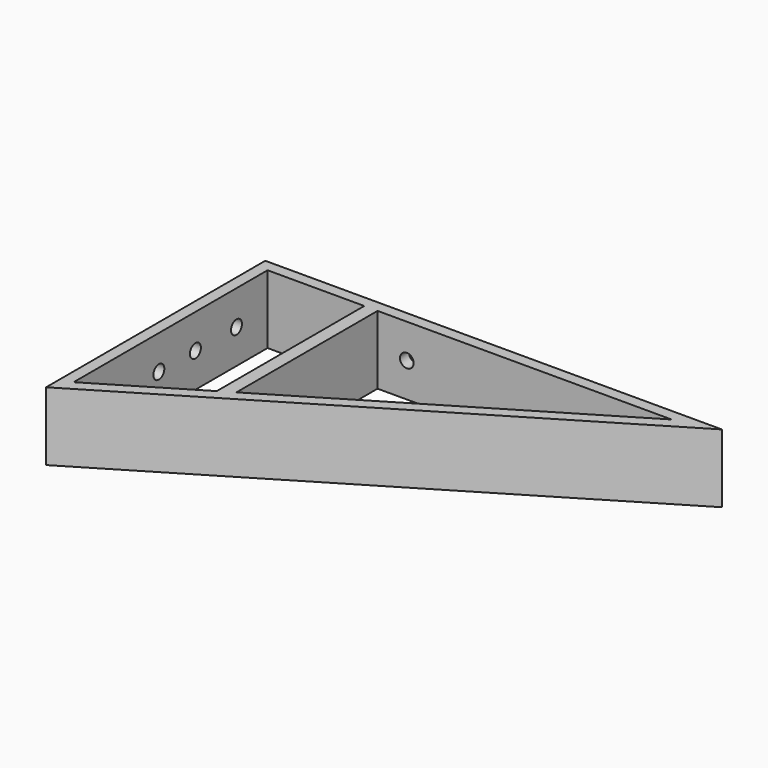
from build123d import *

# Parameters (mm, degrees)
F0_W     = 200
F0_H     = 120
F1_DEPTH = 30
F3_DEPTH = 30
F5_DEPTH = 30
F7_DEPTH = 6
F9_DEPTH = 6


with BuildPart() as f1:
    # F0 (on Top) → F1 (new body)
    with BuildSketch(Plane.XY):
        with Locations((-100, 60)):
            Rectangle(F0_W, F0_H)
    extrude(amount=F1_DEPTH)

    # F2 (on face) → F3 (cut)
    with BuildSketch(Plane.XY.offset(30)):
        Polygon((0, 120), (-200, 0), (0, 0), align=None)
    extrude(amount=-F3_DEPTH, mode=Mode.SUBTRACT)

    # F4 (on face) → F5 (cut)
    with BuildSketch(Plane.XY.offset(30)):
        Polygon((-195, 60.924411), (-195, 8.830952), (-152.64377, 34.24469), (-152.64377, 115), (-195, 115), align=None)
        Polygon((-146.821752, 115), (-146.821752, 37.737901), (-111.472848, 58.947243), (-18.051586, 115), (-115.799665, 115), align=None)
    extrude(amount=-F5_DEPTH, mode=Mode.SUBTRACT)

    # F6 (on face) → F7 (cut)
    with BuildSketch(Plane(origin=(0, 120, 0), x_dir=(-1, 0, 0), z_dir=(0, 1, 0))):
        with BuildLine():
            ThreePointArc((137, 15), (134, 18), (131, 15))
            ThreePointArc((131, 15), (134, 12), (137, 15))
        make_face()
        with BuildLine():
            Line((46, 15), (43, 15))
            ThreePointArc((43, 15), (46, 12), (49, 15))
            Line((49, 15), (46, 15))
        make_face()
        with BuildLine():
            ThreePointArc((49, 15), (46, 18), (43, 15))
            Line((43, 15), (46, 15))
            Line((46, 15), (49, 15))
        make_face()
    extrude(amount=-F7_DEPTH, mode=Mode.SUBTRACT)

    # F8 (on face) → F9 (cut)
    with BuildSketch(Plane(origin=(-200, 0, 0), x_dir=(0, -1, 0), z_dir=(-1, 0, 0))):
        with BuildLine():
            Line((-33, 15), (-30, 15))
            ThreePointArc((-30, 15), (-33, 18), (-36, 15))
            Line((-36, 15), (-33, 15))
        make_face()
        with BuildLine():
            ThreePointArc((-36, 15), (-33, 12), (-30, 15))
            Line((-30, 15), (-33, 15))
            Line((-33, 15), (-36, 15))
        make_face()
        with BuildLine():
            Line((-55.5, 15), (-52.5, 15))
            ThreePointArc((-52.5, 15), (-55.5, 18), (-58.5, 15))
            Line((-58.5, 15), (-55.5, 15))
        make_face()
        with BuildLine():
            ThreePointArc((-58.5, 15), (-55.5, 12), (-52.5, 15))
            Line((-52.5, 15), (-55.5, 15))
            Line((-55.5, 15), (-58.5, 15))
        make_face()
        with BuildLine():
            Line((-75.5, 15), (-72.5, 15))
            ThreePointArc((-72.5, 15), (-75.5, 18), (-78.5, 15))
            Line((-78.5, 15), (-75.5, 15))
        make_face()
        with BuildLine():
            ThreePointArc((-78.5, 15), (-75.5, 12), (-72.5, 15))
            Line((-72.5, 15), (-75.5, 15))
            Line((-75.5, 15), (-78.5, 15))
        make_face()
        with BuildLine():
            ThreePointArc((-95, 15), (-98, 18), (-101, 15))
            Line((-101, 15), (-98, 15))
            Line((-98, 15), (-95, 15))
        make_face()
        with BuildLine():
            Line((-98, 15), (-101, 15))
            ThreePointArc((-101, 15), (-98, 12), (-95, 15))
            Line((-95, 15), (-98, 15))
        make_face()
    extrude(amount=-F9_DEPTH, mode=Mode.SUBTRACT)


solid = f1.part
